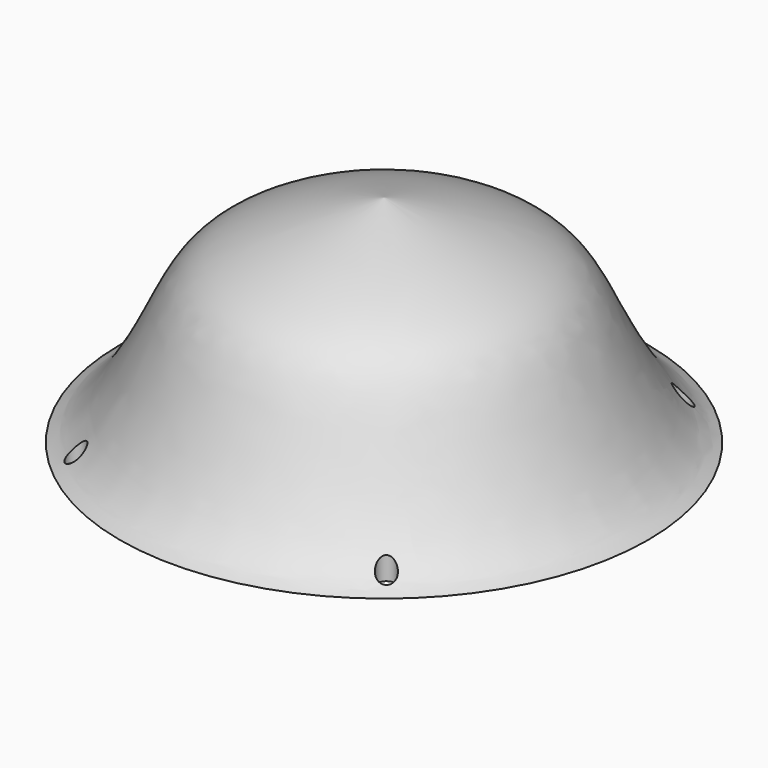
from build123d import *

# Parameters (mm, degrees)
F2_R     = 1.778
F3_DEPTH = 25.4


with BuildPart() as f1:
    # F0 (on Front) → F1 (revolve)
    with BuildSketch(Plane.XZ):
        with BuildLine():
            Line((0, 32.1466252208), (0, -10.3747369722))
            Line((0, -10.3747369722), (52.0732626319, -10.3747369722))
            add(Edge.make_bspline(
                [(0, 32.1466252208), (10.9275414385, 29.5325038614), (30.0372424067, 24.0714517932), (36.7011636202, 10.9515868281), (45.6408367345, -7.9610245633), (52.0732626319, -10.3747369722)],
                knots=[0, 0, 0, 0, 0.2958527827, 0.5050835637, 0.776667174, 0.776667174, 0.776667174, 0.776667174], degree=3))
        make_face()
    revolve(axis=Axis((0, 0, 10.8859441243), (0, 0, 1)))

    # F2 (on Top) → F3 (cut)
    with BuildSketch(Plane.XY):
        with Locations((-31.7369587719, -36.2573042512)):
            Circle(F2_R)
        with Locations((30.2990376949, -37.2843891382)):
            Circle(F2_R)
        with Locations((31.1207063496, 34.8170474172)):
            Circle(F2_R)
        with Locations((-35.229049623, 32.9682938755)):
            Circle(F2_R)
    extrude(amount=-F3_DEPTH, mode=Mode.SUBTRACT)


solid = f1.part
